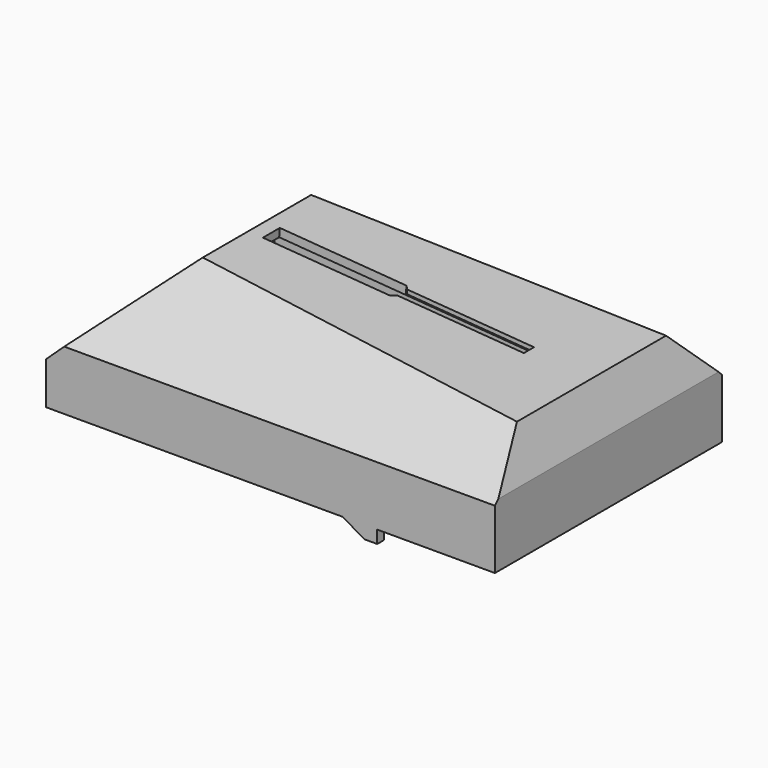
from build123d import *

# Parameters (mm, degrees)
PAD003_DEPTH    = 33.5
SKETCH015_W     = 120
SKETCH015_H     = 100
POCKET011_DEPTH = 123.001
THICKNESS_T     = -2
PAD004_DEPTH    = 31.5
POCKET012_DEPTH = 13
PAD005_DEPTH    = 10
PAD006_DEPTH    = 5
PAD007_DEPTH    = 2
POCKET013_DEPTH = 5
CHAMFER001_SIZE = 1


with BuildPart() as part:
    # Sketch014 → Pad003 (new body, symmetric)
    with BuildSketch(Plane.XZ):
        Polygon((-23, 23.5), (0, 45), (79, 39), (83, 28.5), (83, 13.5), (-23, 13.5), align=None)
    extrude(amount=PAD003_DEPTH, both=True)

    # Sketch015 (on DatumPlane) → Pocket011 (cut, through all)
    with BuildSketch(Plane.YZ.offset(100)):
        with Locations((0, 16.75)):
            Rectangle(SKETCH015_W, SKETCH015_H)
        Polygon((-33.5, 27.5), (-7.25, 53.75), (7.25, 53.75), (33.5, 27.5), (33.5, 13.5), (-33.5, 13.5), align=None, mode=Mode.SUBTRACT)
    extrude(amount=-POCKET011_DEPTH, mode=Mode.SUBTRACT)

    # Thickness
    thickness_openings = [part.faces().sort_by_distance(p)[0] for p in [
        (30, 0, 13.5),
    ]]
    offset(amount=THICKNESS_T, openings=thickness_openings)

    # Sketch020 (on DatumPlane) → Pad004 (join, symmetric)
    with BuildSketch(Plane.XZ):
        Polygon((83, 26.928203), (79, 20), (79, 13.5), (83, 13.5), align=None)
    extrude(amount=PAD004_DEPTH, both=True)

    # Sketch021 (on DatumPlane) → Pocket012 (cut, symmetric)
    with BuildSketch(Plane.XZ):
        Polygon((78.817394, 18.7), (81.3, 18.7), (78.817394, 14.4), align=None)
    extrude(amount=POCKET012_DEPTH, both=True, mode=Mode.SUBTRACT)

    # Sketch022 (on DatumPlane) → Pad005 (join, symmetric)
    with BuildSketch(Plane.XZ):
        Polygon((-21, 20.947818), (-16.7, 13.5), (-16.7, 12.5), (-18.7, 12.5), (-18.7, 13.5), (-21, 13.5), align=None)
    extrude(amount=PAD005_DEPTH, both=True)

    # Sketch023 (on DatumPlane) → Pad006 (join, symmetric)
    with BuildSketch(Plane.XZ):
        Polygon((-18.7, 13.5), (-18.7, 12.5), (-20.8, 10.4), (-20.8, 9.4), (-18.7, 7.3), (-16.7, 7.3), (-16.7, 13.5), align=None)
    extrude(amount=PAD006_DEPTH, both=True)

    # Sketch024 (on Face6 of Pad006) → Pad007 (join)
    with BuildSketch(Plane.XZ.offset(33.5)):
        Polygon((55.2, 13.5), (47.003848, 13.5), (52.2, 10.5), (55.2, 10.5), align=None)
    pad007 = extrude(amount=-PAD007_DEPTH)

    # Mirrored004: Pad007 across XZ
    add(pad007.mirror(Plane.XZ))

    # Sketch025 (on DatumPlane) → Pocket013 (cut)
    with BuildSketch(Plane(origin=(3.39812, 0, 44.741915), x_dir=(0.997128, 0, -0.075731), z_dir=(0.075731, 0, 0.997128))):
        Polygon((0, 2.5), (30, 2.5), (31, 1.5), (61, 1.5), (61, -1.5), (31, -1.5), (30, -2.5), (0, -2.5), align=None)
    extrude(amount=-POCKET013_DEPTH, mode=Mode.SUBTRACT)

    # Chamfer001
    chamfer001_edges = [part.edges().sort_by_distance(p)[0] for p in [
        (49.114558, 1.5, 39.26402),
        (49.114558, -1.5, 39.26402),
    ]]
    chamfer(chamfer001_edges, length=CHAMFER001_SIZE)


solid = part.part
